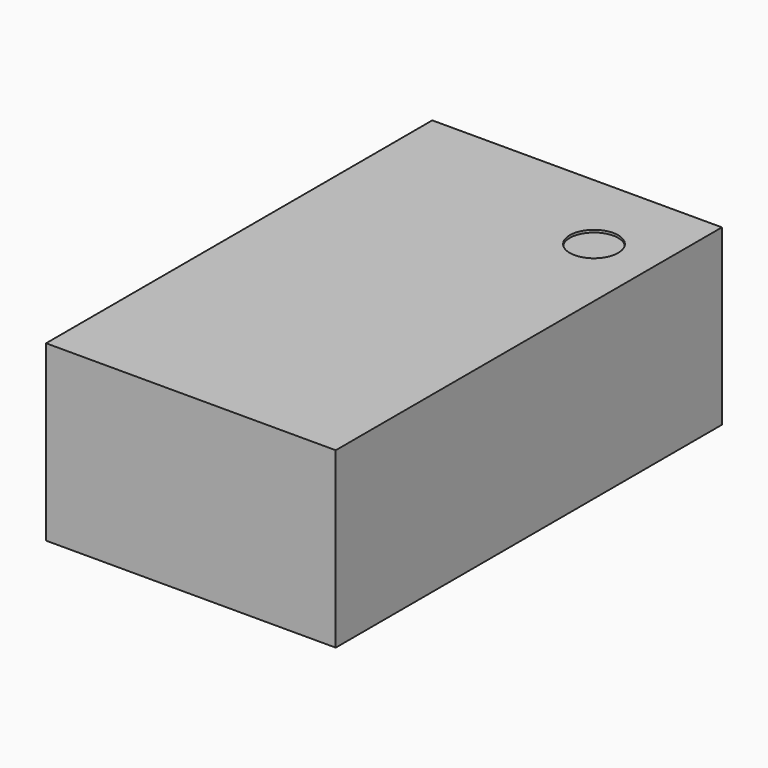
from build123d import *

# Parameters (mm, degrees)
SKETCH_W      = 0.6
SKETCH_H      = 1
PAD_DEPTH     = 0.36
SKETCH001_R   = 0.05
POCKET_DEPTH  = 0.005
SKETCH002_W   = 0.16
SKETCH002_H   = 0.26
SKETCH002_W_2 = 0.51
PAD001_DEPTH  = 0.005


with BuildPart() as part:
    # Sketch → Pad (new body)
    with BuildSketch(Plane.XY):
        Rectangle(SKETCH_W, SKETCH_H)
    extrude(amount=PAD_DEPTH)

    # Sketch001 (on Face6 of Pad) → Pocket (cut)
    with BuildSketch(Plane.XY.offset(0.36)):
        with Locations((0.175, 0.325)):
            Circle(SKETCH001_R)
    extrude(amount=-POCKET_DEPTH, mode=Mode.SUBTRACT)

    # Sketch002 (on Face4 of Pocket) → Pad001 (join)
    with BuildSketch(Plane(origin=(0, 0, 0), x_dir=(1, 0, 0), z_dir=(0, 0, -1))):
        with Locations((0.175, -0.325)):
            Rectangle(SKETCH002_W, SKETCH002_H)
        with Locations((0, 0.325)):
            Rectangle(SKETCH002_W_2, SKETCH002_H)
        with Locations((-0.175, -0.325)):
            Rectangle(SKETCH002_W, SKETCH002_H)
    extrude(amount=PAD001_DEPTH)


solid = part.part
